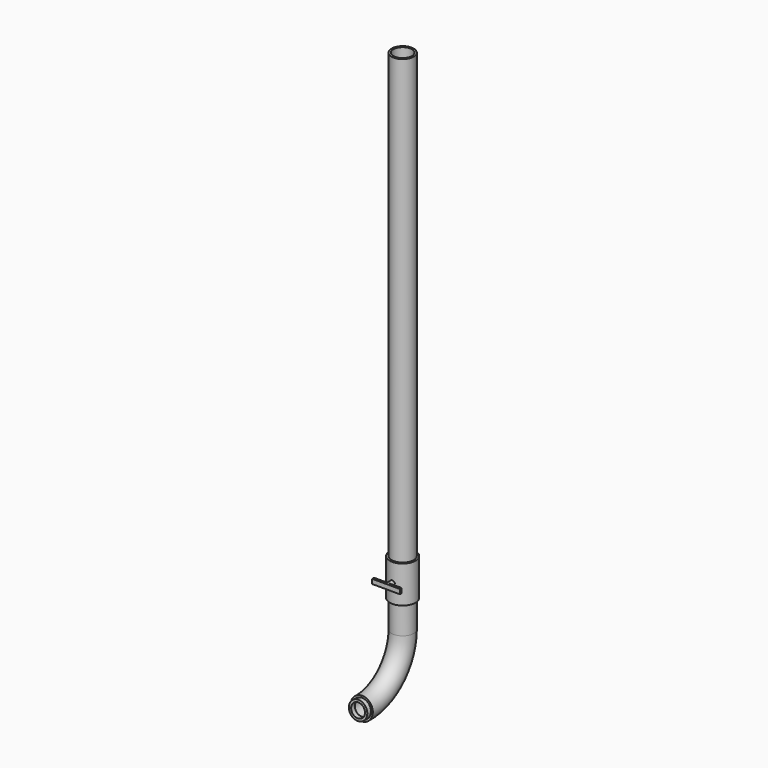
from build123d import *

# Parameters (mm, degrees)
F0_R        = 30.48
F0_R_2      = 25.4
F1_DEPTH    = 1219.2
F2_R        = 35.56
F2_R_2      = 25.4
F3_DEPTH    = 101.6
F5_DEPTH    = 50.8
F6_W        = 76.2
F6_H        = 12.7
F7_DEPTH    = 6.35
F8_R        = 30.48
F8_R_2      = 25.4
F9_DEPTH    = 76.2
F9_FACE_R   = 30.48
F9_FACE_R_2 = 25.4
F12_R       = 25.4
F12_R_2     = 19.05
F13_DEPTH   = 12.7


with BuildPart() as f1:
    # F0 (on Top) → F1 (new body)
    with BuildSketch(Plane.XY):
        Circle(F0_R)
        Circle(F0_R_2, mode=Mode.SUBTRACT)
    extrude(amount=F1_DEPTH)

    # F2 (on face) → F3 (join)
    with BuildSketch(Plane(origin=(0, 0, 0), x_dir=(1, 0, 0), z_dir=(0, 0, -1))):
        Circle(F2_R)
        Circle(F2_R_2, mode=Mode.SUBTRACT)
    extrude(amount=F3_DEPTH)

    # F4 (on Front) → F5 (join)
    with BuildSketch(Plane.XZ):
        with BuildLine():
            ThreePointArc((0, -44.45), (-4.4901280605, -55.2901280605), (6.35, -50.8))
            ThreePointArc((6.35, -50.8), (4.4901280605, -46.3098719395), (0, -44.45))
        make_face()
    extrude(amount=F5_DEPTH)

    # F6 (on face) → F7 (join)
    with BuildSketch(Plane.XZ.offset(50.8)):
        with Locations((0, -50.8)):
            Rectangle(F6_W, F6_H)
    extrude(amount=F7_DEPTH)

    # F8 (on face) → F9 (join)
    with BuildSketch(Plane(origin=(0, 0, -101.6), x_dir=(1, 0, 0), z_dir=(0, 0, -1))):
        Circle(F8_R)
        Circle(F8_R_2, mode=Mode.SUBTRACT)
    extrude(amount=F9_DEPTH)

    # F11: sweep along a path in F10
    with BuildLine(Plane.YZ) as f11_path:
        ThreePointArc((-140.7822519541, -312.1280968189), (-41.6434730439, -275.0929597405), (0, -177.8))
    # F9_face (on face) → F11 (sweep)
    with BuildSketch(Plane(origin=(0, 0, -177.8), x_dir=(1, 0, 0), z_dir=(0, 0, -1))):
        Circle(F9_FACE_R)
        Circle(F9_FACE_R_2, mode=Mode.SUBTRACT)
    sweep(path=f11_path.line)


with BuildPart() as f13:
    # F12 (on face) → F13 (new body)
    with BuildSketch(Plane(origin=(0, -125.85161463, 5.9082702769), x_dir=(1, 0, 0), z_dir=(0, -0.9988998397, 0.0468946723))):
        with Locations((0, -318.3866434485)):
            Circle(F12_R)
        with Locations((0, -318.3866434485)):
            Circle(F12_R_2, mode=Mode.SUBTRACT)
    extrude(amount=F13_DEPTH)


solid = Compound([f1.part, f13.part])
